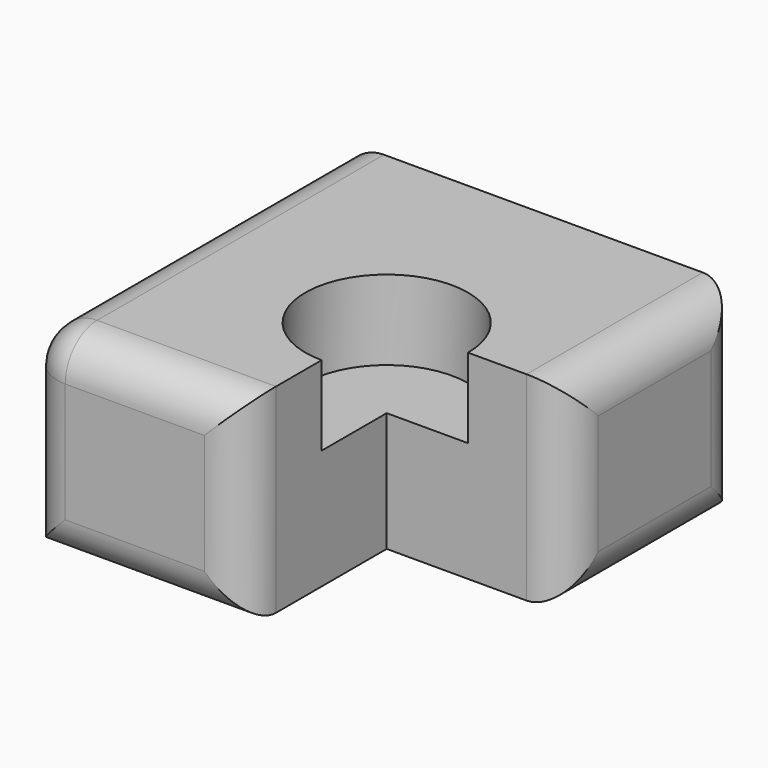
from build123d import *

# Parameters (mm, degrees)
F0_W     = 50
F0_H     = 50
F1_DEPTH = 25
F2_R     = 10.2048696912
F3_DEPTH = 10
F4_W     = 22.5449811667
F4_H     = 22.3516840488
F5_DEPTH = 25
F6_R     = 5


with BuildPart() as f1:
    # F0 (on Top) → F1 (new body)
    with BuildSketch(Plane.XY):
        with Locations((25, 25)):
            Rectangle(F0_W, F0_H)
    extrude(amount=F1_DEPTH)

    # F2 (on face) → F3 (cut)
    with BuildSketch(Plane.XY.offset(25)):
        with Locations((27.4550188333, 22.3516840488)):
            Circle(F2_R)
    extrude(amount=-F3_DEPTH, mode=Mode.SUBTRACT)

    # F4 (on face) → F5 (cut)
    with BuildSketch(Plane.XY.offset(25)):
        with Locations((38.7275094166, 11.1758420244)):
            Rectangle(F4_W, F4_H)
    extrude(amount=-F5_DEPTH, mode=Mode.SUBTRACT)

    # F6
    f6_edges = [f1.edges().sort_by_distance(p)[0] for p in [
        (0, 25, 25),
        (0, 0, 12.5),
        (13.727509, 0, 0),
        (27.455019, 0, 12.5),
        (13.727509, 0, 25),
        (50, 36.175842, 25),
        (50, 50, 12.5),
        (50, 36.175842, 0),
        (50, 22.351684, 12.5),
    ]]
    fillet(f6_edges, radius=F6_R)


solid = f1.part
